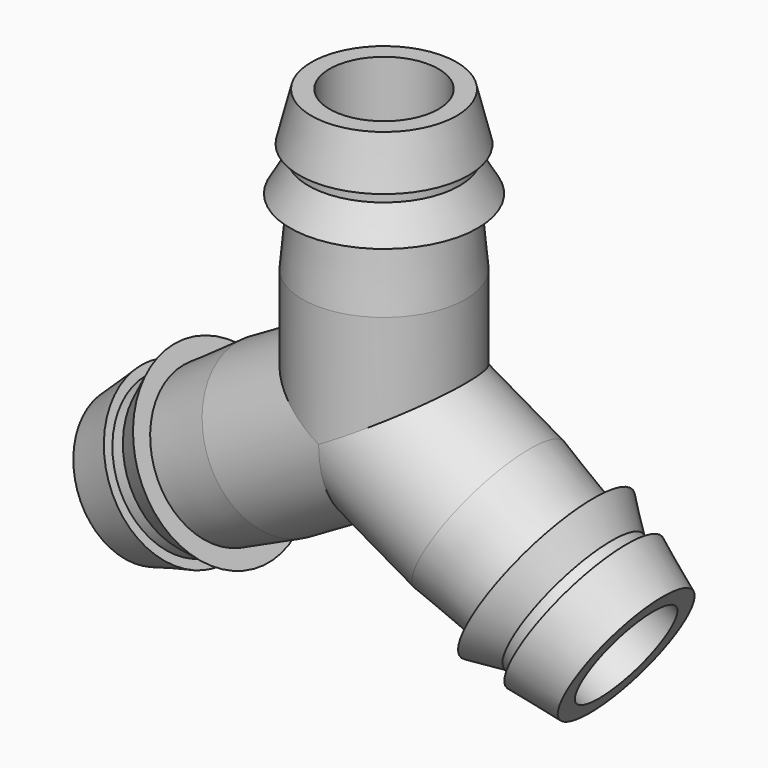
from build123d import *

# Parameters (mm, degrees)
SKETCH001_W           = 4.5
SKETCH001_H           = 24
POLARPATTERN001_COUNT = 3
POLARPATTERN_COUNT    = 3


with BuildPart() as body001:
    # Sketch001 → Revolution001 (revolve)
    with BuildSketch(Plane.XZ):
        with Locations((2.25, 12)):
            Rectangle(SKETCH001_W, SKETCH001_H)
    revolution001 = revolve(axis=Axis((0, 0, 0), (0, 0, 1)))

    # PolarPattern001: Revolution001 ×3 about axis
    polarpattern001_axis = Axis((0, 0, 0), (0, 1, 0))
    for i in range(1, POLARPATTERN001_COUNT):
        add(revolution001.rotate(polarpattern001_axis, i * 360 / POLARPATTERN001_COUNT))


with BuildPart() as cut:
    # Sketch → Revolution (revolve)
    with BuildSketch(Plane.XZ):
        Polygon((6.75, 0), (6.75, 10), (6.25, 15.5), (7.75, 15.5), (6.25, 18.098076), (6.25, 19.098076), (7, 19.098076), (6, 23.098076), (0, 23.098076), (0, 0), align=None)
    revolution = revolve(axis=Axis((0, 0, 0), (0, 0, 1)))

    # PolarPattern: Revolution ×3 about axis
    polarpattern_axis = Axis((0, 0, 0), (0, -1, 0))
    for i in range(1, POLARPATTERN_COUNT):
        add(revolution.rotate(polarpattern_axis, i * 360 / POLARPATTERN_COUNT))

    # Cut: cut Body001
    add(body001.part, mode=Mode.SUBTRACT)


solid = cut.part
